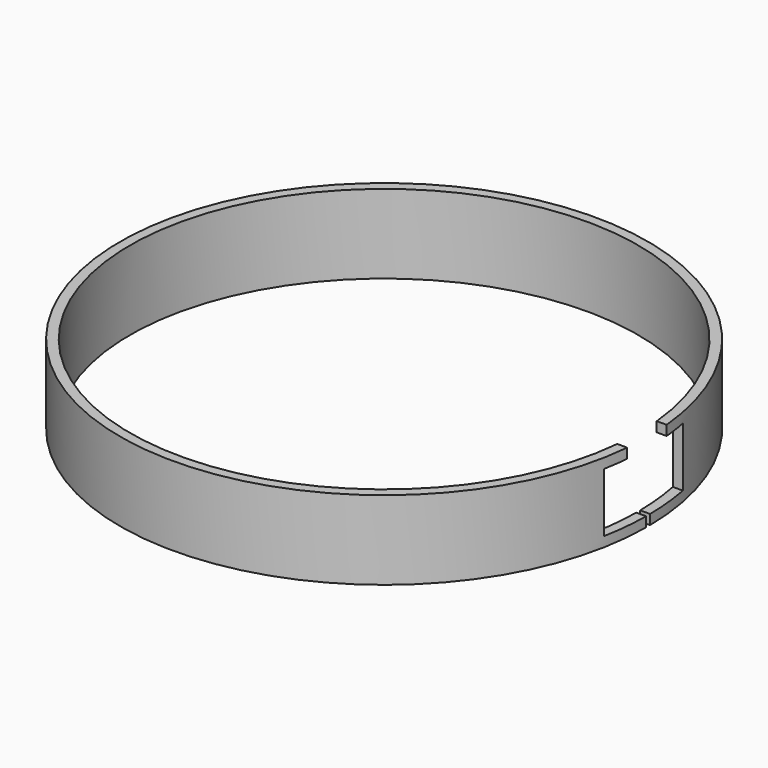
from build123d import *

# Parameters (mm, degrees)
BOX002_W          = 25
BOX002_H          = 10
BOX002_DEPTH      = 25.45
BOX010_W          = 25
BOX010_H          = 1
BOX010_DEPTH      = 25.45
BOX_W             = 25
BOX_H             = 20
BOX_DEPTH         = 12
CYLINDER_R        = 51.5
CYLINDER_DEPTH    = 16
CYLINDER001_R     = 53.5
CYLINDER001_DEPTH = 16


with BuildPart() as cube002:
    # Box002 → Box002 (new body)
    with BuildSketch(Plane(origin=(40, -5, 2.55), x_dir=(1, 0, 0), z_dir=(0, 0, 1))):
        with Locations((12.5, 5)):
            Rectangle(BOX002_W, BOX002_H)
    extrude(amount=BOX002_DEPTH)


with BuildPart() as cube010:
    # Box010 → Box010 (new body)
    with BuildSketch(Plane(origin=(45, -0.5, -3.45), x_dir=(1, 0, 0), z_dir=(0, 0, 1))):
        with Locations((12.5, 0.5)):
            Rectangle(BOX010_W, BOX010_H)
    extrude(amount=BOX010_DEPTH)


with BuildPart() as obj1:
    # Box → Box (new body)
    with BuildSketch(Plane(origin=(40, -10, 2), x_dir=(1, 0, 0), z_dir=(0, 0, 1))):
        with Locations((12.5, 10)):
            Rectangle(BOX_W, BOX_H)
    extrude(amount=BOX_DEPTH)

    # Fusion: union Cube002, Cube010
    add(cube002.part)
    add(cube010.part)


with BuildPart() as cylinder_chico:
    # Cylinder → Cylinder (new body)
    with BuildSketch(Plane.XY):
        Circle(CYLINDER_R)
    extrude(amount=CYLINDER_DEPTH)


with BuildPart() as cut015021:
    # Cylinder001 → Cylinder001 (new body)
    with BuildSketch(Plane.XY):
        Circle(CYLINDER001_R)
    extrude(amount=CYLINDER001_DEPTH)

    # Cut: cut Cylinder_chico
    add(cylinder_chico.part, mode=Mode.SUBTRACT)

    # Cut015021: cut obj1
    add(obj1.part, mode=Mode.SUBTRACT)


solid = cut015021.part
